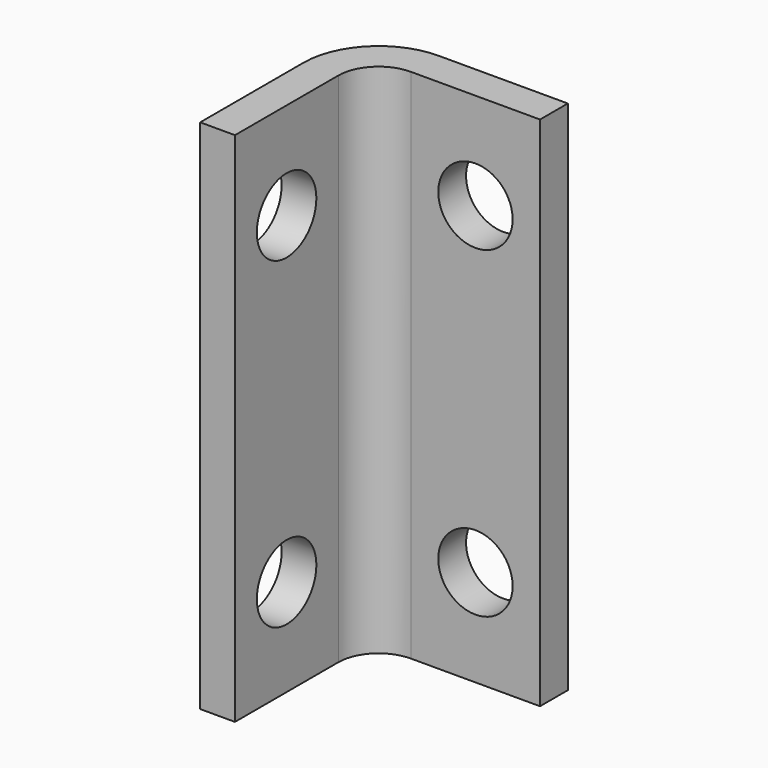
from build123d import *

# Parameters (mm, degrees)
F1_DEPTH = 25.4
F2_R     = 1.8288
F3_DEPTH = 1.70942
F4_R     = 1.8288
F5_DEPTH = 1.70942
F6_R     = 1.98374
F7_R     = 3.69316


with BuildPart() as f1:
    # F0 (on Top) → F1 (new body)
    with BuildSketch(Plane.XY):
        Polygon((-1.70942, -8.33374), (0, -8.33374), (0, 0), (8.33374, 0), (8.33374, 1.70942), (-1.70942, 1.70942), align=None)
    extrude(amount=F1_DEPTH)

    # F2 (on face) → F3 (cut, through all)
    with BuildSketch(Plane.XZ):
        with Locations((5.15874, 20.6375)):
            Circle(F2_R)
        with Locations((5.15874, 4.7625)):
            Circle(F2_R)
    extrude(amount=-F3_DEPTH, mode=Mode.SUBTRACT)

    # F4 (on face) → F5 (cut, through all)
    with BuildSketch(Plane.YZ):
        with Locations((-5.15874, 20.6375)):
            Circle(F4_R)
        with Locations((-5.15874, 4.7625)):
            Circle(F4_R)
    extrude(amount=-F5_DEPTH, mode=Mode.SUBTRACT)

    # F6
    f6_edges = [f1.edges().sort_by_distance(p)[0] for p in [
        (0, 0, 12.7),
    ]]
    fillet(f6_edges, radius=F6_R)

    # F7
    f7_edges = [f1.edges().sort_by_distance(p)[0] for p in [
        (-1.70942, 1.70942, 12.7),
    ]]
    fillet(f7_edges, radius=F7_R)


solid = f1.part
